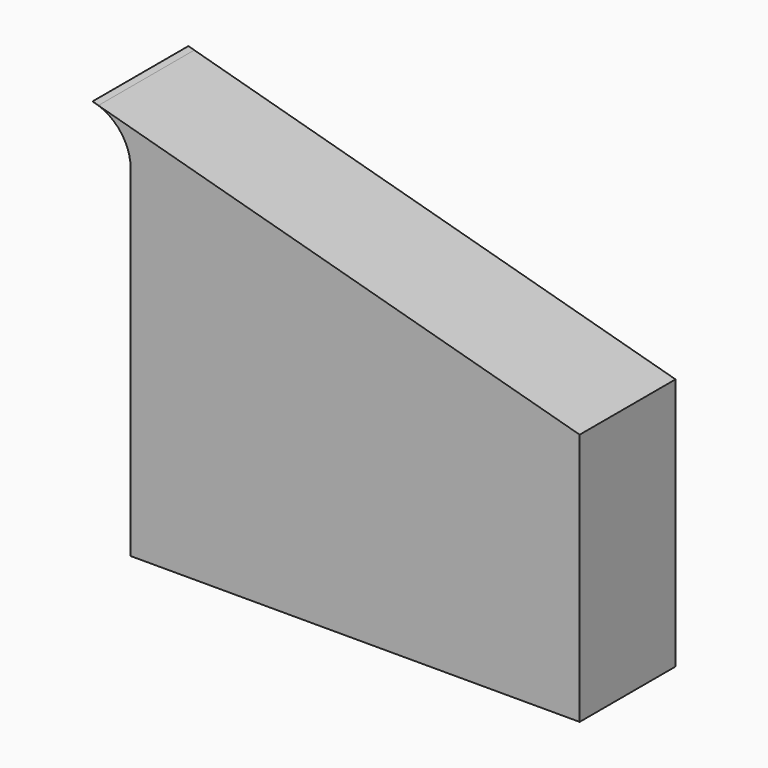
from build123d import *

# Parameters (mm, degrees)
F0_W     = 95.138952
F0_H     = 53.587292
F1_DEPTH = 25.4


with BuildPart() as f1:
    # F0 (on Front) → F1 (new body)
    with BuildSketch(Plane.XZ):
        with BuildLine():
            Line((-47.569476, 45.416079), (-47.569476, 26.793646))
            Line((-47.569476, 26.793646), (47.569476, 26.793646))
            Line((47.569476, 26.793646), (-54.424973, 55.050818))
            ThreePointArc((-54.424973, 55.050818), (-49.458261, 51.328482), (-47.569476, 45.416079))
        make_face()
        Rectangle(F0_W, F0_H)
        with BuildLine():
            Line((-55.675639, 55.39731), (-54.424973, 55.050818))
            ThreePointArc((-54.424973, 55.050818), (-55.044789, 55.243978), (-55.675639, 55.39731))
        make_face()
    extrude(amount=F1_DEPTH)


solid = f1.part
